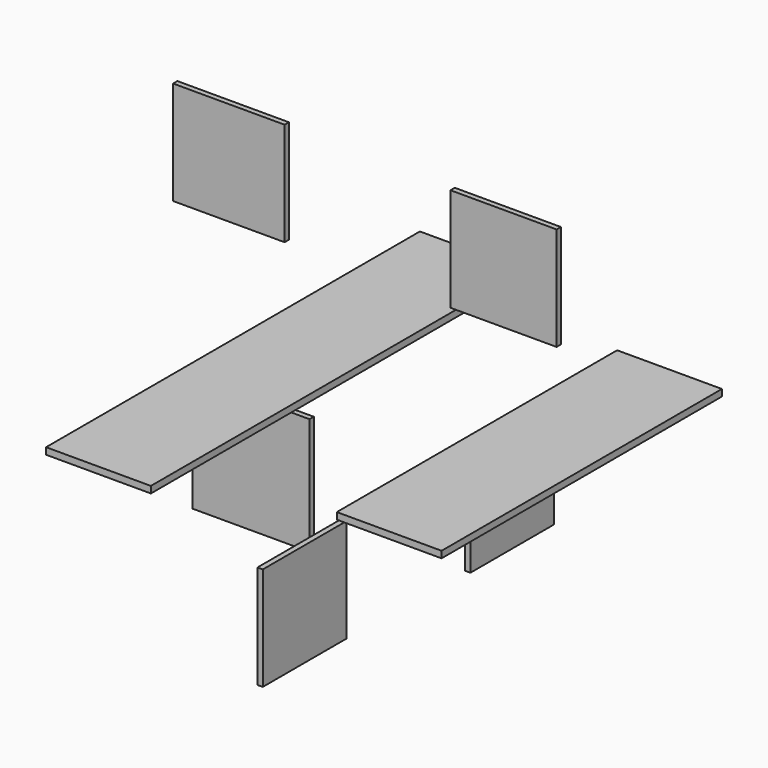
from build123d import *

# Parameters (mm, degrees)
F0_W      = 31.4
F0_H      = 105
F1_DEPTH  = 2
F2_W      = 31.4
F2_H      = 140
F3_DEPTH  = 2
F4_W      = 33.4
F4_H      = 31
F5_DEPTH  = 1.6
F6_W      = 31.8
F6_H      = 31
F7_DEPTH  = 1.6
F8_W      = 31.4
F8_H      = 31
F10_DEPTH = 1.6
F9_W      = 31.4
F9_H      = 31
F11_DEPTH = 1.6
F12_W     = 35
F12_H     = 35
F13_DEPTH = 1.6


with BuildPart() as f1:
    # F0 (on Top) → F1 (new body)
    with BuildSketch(Plane.XY):
        with Locations((38.877585, -2.453307)):
            Rectangle(F0_W, F0_H)
    extrude(amount=F1_DEPTH)


with BuildPart() as f3:
    # F2 (on Top) → F3 (new body)
    with BuildSketch(Plane.XY):
        with Locations((-34.767331, -1.775749)):
            Rectangle(F2_W, F2_H)
    extrude(amount=F3_DEPTH)


with BuildPart() as f5:
    # F4 (on Front) → F5 (new body)
    with BuildSketch(Plane.XZ):
        with Locations((-51.840209, 48.02339)):
            Rectangle(F4_W, F4_H)
    extrude(amount=F5_DEPTH)


with BuildPart() as f7:
    # F6 (on Front) → F7 (new body)
    with BuildSketch(Plane.XZ):
        with Locations((30.455169, 46.901891)):
            Rectangle(F6_W, F6_H)
    extrude(amount=F7_DEPTH)


with BuildPart() as f10:
    # F8 (on Right) → F10 (new body)
    with BuildSketch(Plane.YZ):
        with Locations((-39.999083, -35.341156)):
            Rectangle(F8_W, F8_H)
    extrude(amount=F10_DEPTH)


with BuildPart() as f11:
    # F9 (on Right) → F11 (new body)
    with BuildSketch(Plane.YZ):
        with Locations((37.757983, -36.83648)):
            Rectangle(F9_W, F9_H)
    extrude(amount=F11_DEPTH)


with BuildPart() as f13:
    # F12 (on Front) → F13 (new body)
    with BuildSketch(Plane.XZ):
        with Locations((-45.16357, -29.229002)):
            Rectangle(F12_W, F12_H)
    extrude(amount=F13_DEPTH)


solid = Compound([f1.part, f3.part, f5.part, f7.part, f10.part, f11.part, f13.part])
